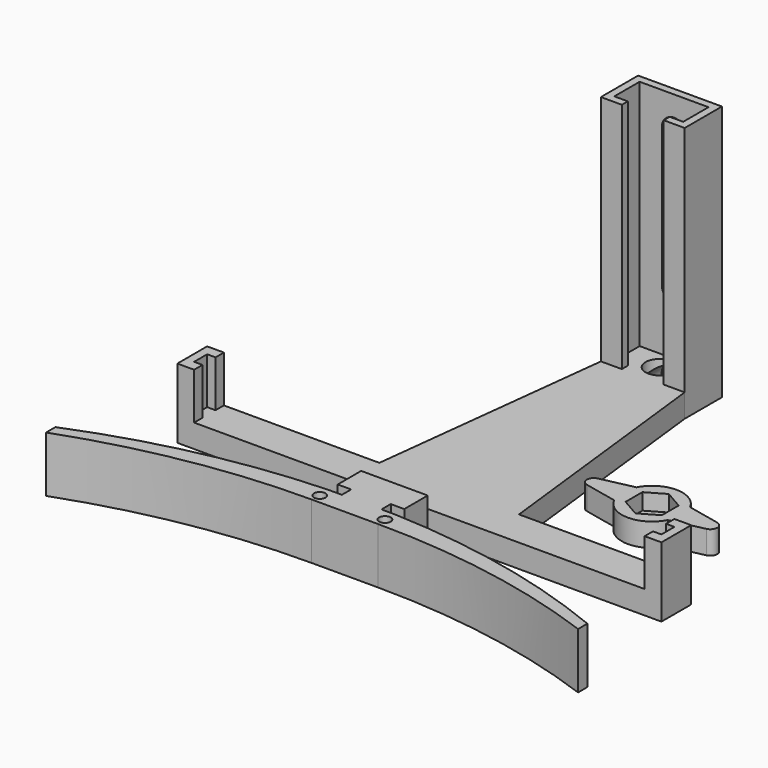
from build123d import *

# Parameters (mm, degrees)
SKETCH_R        = 3
PAD_DEPTH       = 5
PAD001_DEPTH    = 50
PAD003_DEPTH    = 10
POCKET_DEPTH    = 1.6
SKETCH010_R     = 4
POCKET004_DEPTH = 9
PAD002_DEPTH    = 6
SKETCH004_R     = 2.75
HOLE_DEPTH      = 9
SKETCH012_R     = 3.5
POCKET005_DEPTH = 6.2
SKETCH013_R     = 1.25
POCKET006_DEPTH = 12.001
PAD004_DEPTH    = 5
POCKET007_DEPTH = 3.5


with BuildPart() as obj1:
    # Sketch → Pad (new body)
    with BuildSketch(Plane.XY):
        Polygon((-52, 0), (52, 0), (52, 8), (15, 8), (9, 60), (9, 70), (-9, 70), (-9, 60), (-15, 8), (-51.999972, 8), align=None)
        with Locations((0, 64.5)):
            Circle(SKETCH_R, mode=Mode.SUBTRACT)
    extrude(amount=PAD_DEPTH)

    # Sketch001 (on Face13 of Pad) → Pad001 (join)
    with BuildSketch(Plane.XY.offset(5)):
        Polygon((-9, 70), (-9, 60), (-4.5, 60), (-4.5, 61.6), (-7.4, 61.6), (-7.4, 68.4), (7.4, 68.4), (7.4, 61.6), (4.5, 61.6), (4.5, 60), (9, 60), (9, 70), align=None)
    extrude(amount=PAD001_DEPTH)

    # Sketch011 (on Face13 of Pad) → Pad003 (join)
    with BuildSketch(Plane.XY.offset(5)):
        Polygon((-52, 0), (-48.4, 0), (-48.4, 2.25), (-50.2, 2.25), (-50.2, 5.75), (-48.4, 5.75), (-48.4, 8), (-52, 8), align=None)
        Polygon((-9, 70), (-9, 60), (-4.5, 60), (-4.5, 61.6), (-7.4, 61.6), (-7.4, 68.4), (7.4, 68.4), (7.4, 61.6), (4.5, 61.6), (4.5, 60), (9, 60), (9, 70), align=None)
        Polygon((52, 0), (48.4, 0), (48.4, 2.25), (50.2, 2.25), (50.2, 5.75), (48.4, 5.75), (48.4, 8), (52, 8), align=None)
    extrude(amount=PAD003_DEPTH)

    # Sketch002 (on Face24 of Pad001) → Pocket (cut)
    with BuildSketch(Plane(origin=(0, 70, 0), x_dir=(-1, 0, 0), z_dir=(0, 1, 0))):
        with BuildLine():
            ThreePointArc((2.625, 48), (0, 50.625), (-2.625, 48))
            Line((-2.625, 48), (-2.625, 18))
            ThreePointArc((-2.625, 18), (0, 15.375), (2.625, 18))
            Line((2.625, 48), (2.625, 18))
        make_face()
    extrude(amount=-POCKET_DEPTH, mode=Mode.SUBTRACT)

    # Sketch010 (on Face14 of Pocket) → Pocket004 (cut)
    with BuildSketch(Plane(origin=(0, 70, 0), x_dir=(-1, 0, 0), z_dir=(0, 1, 0))):
        Circle(SKETCH010_R)
    extrude(amount=-POCKET004_DEPTH, mode=Mode.SUBTRACT)


with BuildPart() as obj2:
    # Sketch003 → Pad002 (new body, symmetric)
    with BuildSketch(Plane.XY):
        with BuildLine():
            Line((-7.15, 13.3), (7.15, 13.3))
            Line((7.15, 13.3), (7.15, 7))
            Line((4.25, 7), (7.15, 7))
            Line((4.25, 4.5), (4.25, 7))
            Line((7.15, 4.5), (4.25, 4.5))
            ThreePointArc((57.15, -6.316349), (32.623154, 1.279042), (7.15, 4.5))
            Line((57.15, -8.816349), (57.15, -6.316349))
            ThreePointArc((57.15, -8.816349), (32.535665, -2.220958), (7.15, 0))
            Line((-7.15, 0), (7.15, 0))
            ThreePointArc((-7.15, 0), (-32.535665, -2.220958), (-57.15, -8.816349))
            Line((-57.15, -8.816349), (-57.15, -6.316349))
            ThreePointArc((-7.15, 4.5), (-32.623154, 1.279042), (-57.15, -6.316349))
            Line((-7.15, 4.5), (-4.25, 4.5))
            Line((-4.25, 7), (-4.25, 4.5))
            Line((-7.15, 7), (-4.25, 7))
            Line((-7.15, 7), (-7.15, 13.3))
        make_face()
    extrude(amount=PAD002_DEPTH, both=True)

    # Sketch004 (on Face5 of Pad002) → Hole (cut)
    with BuildSketch(Plane(origin=(0, 13.3, 0), x_dir=(-1, 0, 0), z_dir=(0, 1, 0))):
        Circle(SKETCH004_R)
    extrude(amount=-HOLE_DEPTH, mode=Mode.SUBTRACT)

    # Sketch012 (on Face9 of Hole) → Pocket005 (cut)
    with BuildSketch(Plane(origin=(0, 13.3, 0), x_dir=(-1, 0, 0), z_dir=(0, 1, 0))):
        Circle(SKETCH012_R)
    extrude(amount=-POCKET005_DEPTH, mode=Mode.SUBTRACT)

    # Sketch013 (on Face5 of Pocket005) → Pocket006 (cut, through all)
    with BuildSketch(Plane.XY.offset(6)):
        with Locations((7, 2)):
            Circle(SKETCH013_R)
        with Locations((-7, 2)):
            Circle(SKETCH013_R)
    extrude(amount=-POCKET006_DEPTH, mode=Mode.SUBTRACT)


with BuildPart() as obj2_1:
    # Body001 placement: moved
    add(obj2.part.moved(Location((0, -20, 6))))


with BuildPart() as obj3:
    # Sketch014 → Pad004 (new body)
    with BuildSketch(Plane.XY):
        with BuildLine():
            ThreePointArc((-5.766281, -3), (0, -6.5), (5.766281, -3))
            Line((12.818865, -1.465717), (5.766281, -3))
            ThreePointArc((12.818865, -1.465717), (14, 0), (12.818865, 1.465717))
            Line((5.766281, 3), (12.818865, 1.465717))
            ThreePointArc((5.766281, 3), (0, 6.5), (-5.766281, 3))
            Line((-5.766281, 3), (-12.818865, 1.465717))
            ThreePointArc((-12.818865, 1.465717), (-14, 0), (-12.818865, -1.465717))
            Line((-12.818865, -1.465717), (-5.766281, -3))
        make_face()
    extrude(amount=PAD004_DEPTH)

    # Sketch015 (on Face10 of Pad004) → Pocket007 (cut)
    with BuildSketch(Plane.XY.offset(5)):
        Polygon((3.897114, -2.25), (3.897114, 2.25), (0, 4.5), (-3.897114, 2.25), (-3.897114, -2.25), (0, -4.5), align=None)
    extrude(amount=-POCKET007_DEPTH, mode=Mode.SUBTRACT)


with BuildPart() as obj3_1:
    # Body002 placement: moved
    add(obj3.part.moved(Location((30, 25, 0))))


solid = Compound([obj1.part, obj2_1.part, obj3_1.part])
